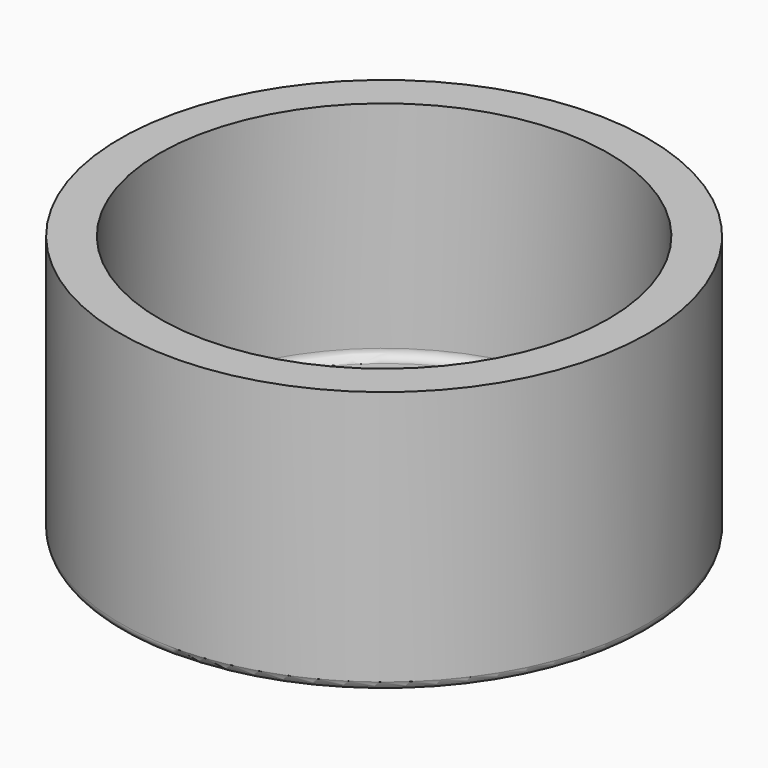
from build123d import *

# Parameters (mm, degrees)
F0_R     = 15.24
F1_DEPTH = 15.24
F2_T     = -2.286
F3_R     = 0.508
F4_R     = 0.508


with BuildPart() as f1:
    # F0 (on Top) → F1 (new body)
    with BuildSketch(Plane.XY):
        Circle(F0_R)
        Circle(F0_R)
    extrude(amount=F1_DEPTH)

    # F2
    f2_openings = [f1.faces().sort_by_distance(p)[0] for p in [
        (0, 0, 15.24),
    ]]
    offset(amount=F2_T, openings=f2_openings)

    # F3
    f3_edges = [f1.edges().sort_by_distance(p)[0] for p in [
        (-12.954, 0, 2.286),
    ]]
    fillet(f3_edges, radius=F3_R)

    # F4
    f4_edges = [f1.edges().sort_by_distance(p)[0] for p in [
        (-15.24, 0, 0),
    ]]
    fillet(f4_edges, radius=F4_R)


solid = f1.part
